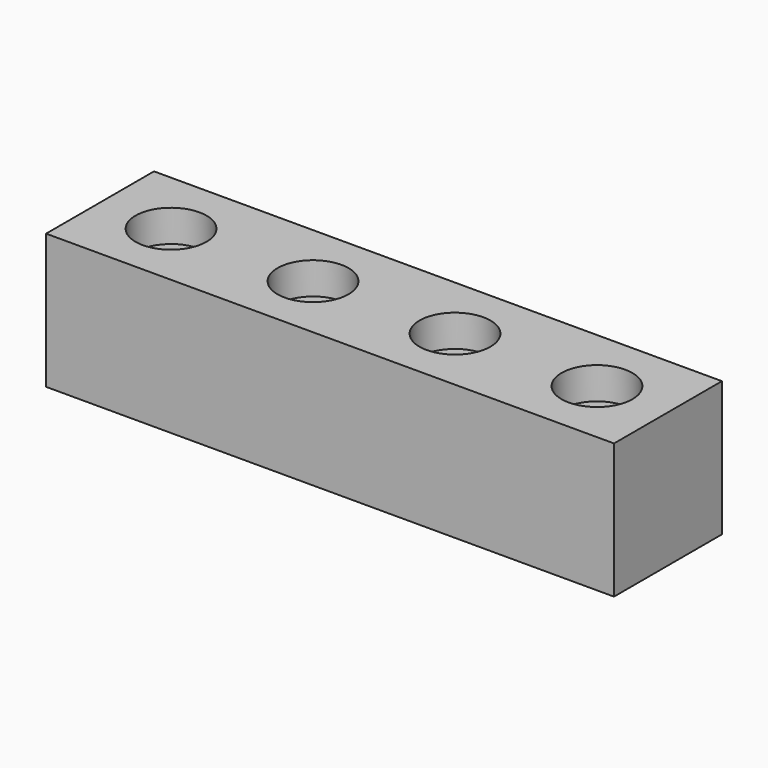
from build123d import *

# Parameters (mm, degrees)
F0_W     = 80
F0_H     = 19
F0_R     = 2.55
F1_DEPTH = 19
F2_R     = 5
F3_DEPTH = 4.5


with BuildPart() as f1:
    # F0 (on Top) → F1 (new body)
    with BuildSketch(Plane.XY):
        Rectangle(F0_W, F0_H)
        with Locations((-30, 0)):
            Circle(F0_R, mode=Mode.SUBTRACT)
        with Locations((-10, 0)):
            Circle(F0_R, mode=Mode.SUBTRACT)
        with Locations((10, 0)):
            Circle(F0_R, mode=Mode.SUBTRACT)
        with Locations((30, 0)):
            Circle(F0_R, mode=Mode.SUBTRACT)
    extrude(amount=F1_DEPTH)

    # F2 (on face) → F3 (cut)
    with BuildSketch(Plane.XY.offset(19)):
        with Locations((-30, 0)):
            Circle(F2_R)
        with Locations((-10, 0)):
            Circle(F2_R)
        with Locations((10, 0)):
            Circle(F2_R)
        with Locations((30, 0)):
            Circle(F2_R)
    extrude(amount=-F3_DEPTH, mode=Mode.SUBTRACT)


solid = f1.part
